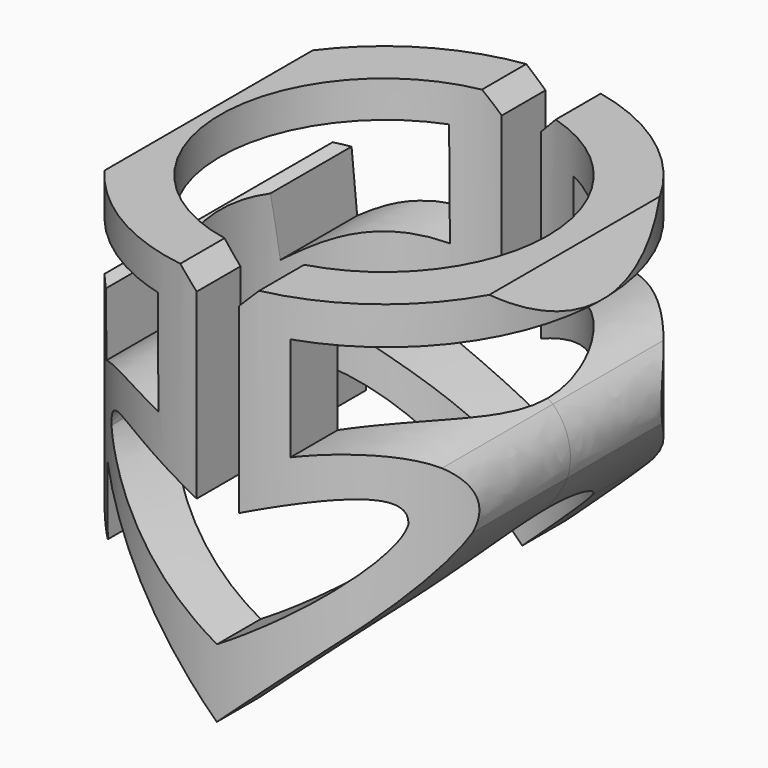
from build123d import *

# Parameters (mm, degrees)
F0_R     = 12
F0_R_2   = 9
F1_DEPTH = 26.1
F3_DEPTH = 21.3


with BuildPart() as f1:
    # F0 (on Top) → F1 (new body)
    with BuildSketch(Plane.XY):
        Circle(F0_R)
        Circle(F0_R_2, mode=Mode.SUBTRACT)
    extrude(amount=-F1_DEPTH)

    # F2 (on Front) → F3 (cut, symmetric)
    with BuildSketch(Plane.XZ):
        Polygon((15.675, 5), (-15.675, 5), (-15.675, -16.211327), (-15.675, -26.77256), (15.675, -26.77256), (15.675, -16.211327), align=None)
        with BuildLine():
            Line((10.473571, -1.095666), (11.994756, -3.202342))
            Line((11.994756, -3.202342), (3.931284, -3.148469))
            Line((3.931284, -3.148469), (3.931284, -8.856577))
            add(Edge.make_bspline(
                [(3.931284, -8.856577), (5.618541, -8.330593), (7.984033, -8.074534), (9.274707, -9.156923)],
                knots=[0, 0, 0, 0, 5.351858, 5.351858, 5.351858, 5.351858], degree=3))
            add(Edge.make_bspline(
                [(9.274707, -9.156923), (10.135584, -9.949291), (10.472335, -11.220257), (10.082537, -12.456313)],
                knots=[0, 0, 0, 0, 3.396846, 3.396846, 3.396846, 3.396846], degree=3))
            add(Edge.make_bspline(
                [(6.163049, -17.266925), (7.156994, -16.363079), (9.34073, -14.280599), (10.082537, -12.456313)],
                knots=[0, 0, 0, 0, 6.20519, 6.20519, 6.20519, 6.20519], degree=3))
            Line((6.163049, -17.266925), (0.407238, -22.535754))
            Line((0.407238, -22.535754), (-8.167941, -13.967465))
            Line((-8.167941, -13.967465), (-8.080905, -17.731598))
            add(Edge.make_bspline(
                [(-8.080905, -17.731598), (-9.24804, -17.323826), (-9.825953, -15.606703), (-9.716401, -15.873509)],
                knots=[0, 0, 0, 0, 2.475347, 2.475347, 2.475347, 2.475347], degree=3))
            Line((-9.716401, -15.873509), (-10.175264, -11.048184))
            Line((-10.175264, -11.048184), (-10.754729, -10.833098))
            Line((-10.754729, -10.833098), (-10.233954, -10.511102))
            Line((-10.233954, -10.511102), (-10.598764, -7.545468))
            add(Edge.make_bspline(
                [(-10.598764, -7.545468), (-11.05768, -7.771383), (-11.321196, -8.04169), (-11.484291, -8.20839)],
                knots=[0, 0, 0, 0, 1.106176, 1.106176, 1.106176, 1.106176], degree=3))
            Line((-11.484291, -8.20839), (-11.899563, -8.031425))
            Line((-11.899563, -8.031425), (-9.09107, -5.639633))
            Line((-9.09107, -5.639633), (-8.532674, -5.915898))
            Line((-8.532674, -5.915898), (-8.360607, -9.269495))
            add(Edge.make_bspline(
                [(-8.360607, -9.269495), (-7.45515, -8.738803), (-6.290257, -8.071975), (-3.128413, -8.842874)],
                knots=[0, 0, 0, 0, 5.249557, 5.249557, 5.249557, 5.249557], degree=3))
            Line((-3.128413, -8.842874), (-3.163156, -3.089059))
            Line((-3.163156, -3.089059), (-11.469418, -3.139215))
            Line((-11.469418, -3.139215), (-9.637977, -1.095666))
            Line((-9.637977, -1.095666), (-1.688637, -1.095666))
            Line((-1.688637, -1.095666), (-0.708562, -2.087868))
            Line((-0.708562, -2.087868), (-0.708562, -12.105446))
            add(Edge.make_bspline(
                [(-7.444979, -11.798229), (-7.605308, -8.998158), (-1.498995, -11.734273), (-0.708562, -12.105446)],
                knots=[0, 0, 0, 0, 6.743419, 6.743419, 6.743419, 6.743419], degree=3))
            add(Edge.make_bspline(
                [(0.417797, -18.778385), (-3.529965, -16.399653), (-7.039457, -13.622032), (-7.444979, -11.798229)],
                knots=[0, 0, 0, 0, 10.514077, 10.514077, 10.514077, 10.514077], degree=3))
            add(Edge.make_bspline(
                [(0.417797, -18.778385), (4.365559, -16.399653), (7.87505, -13.622032), (8.280573, -11.798229)],
                knots=[0, 0, 0, 0, 10.514077, 10.514077, 10.514077, 10.514077], degree=3))
            add(Edge.make_bspline(
                [(8.280573, -11.798229), (8.440902, -8.998158), (2.334589, -11.734273), (1.544156, -12.105446)],
                knots=[0, 0, 0, 0, 6.743419, 6.743419, 6.743419, 6.743419], degree=3))
            Line((1.544156, -12.105446), (1.544156, -2.087868))
            Line((1.544156, -2.087868), (2.524231, -1.095666))
            Line((2.524231, -1.095666), (10.473571, -1.095666))
        make_face(mode=Mode.SUBTRACT)
    extrude(amount=F3_DEPTH, both=True, mode=Mode.SUBTRACT)


solid = f1.part
